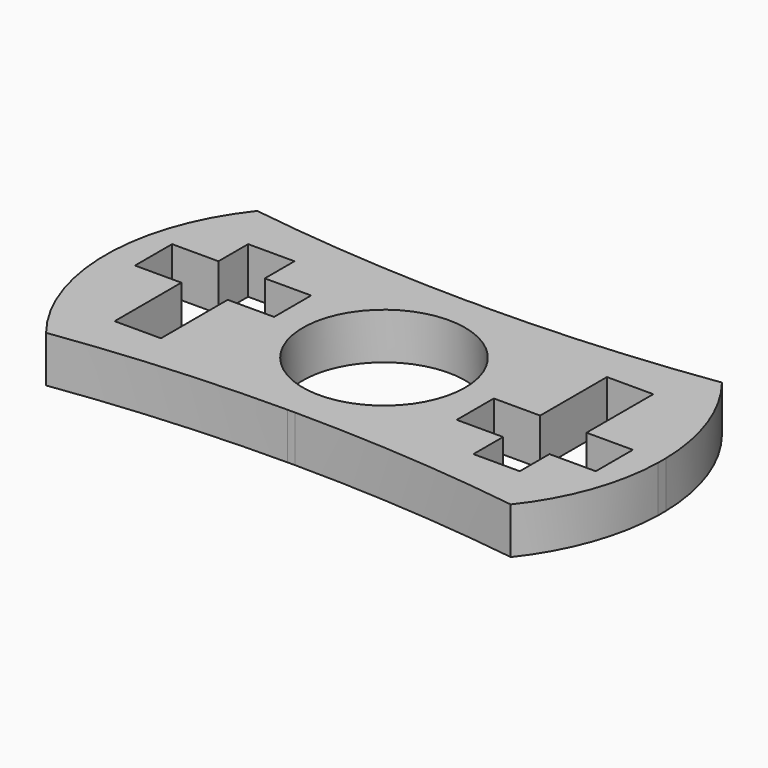
from build123d import *

# Parameters (mm, degrees)
F0_W          = 76.2
F0_H          = 76.2
F1_DEPTH      = 3.175
F1_DEPTH_BACK = 3.175
F2_R          = 11.1125
F3_DEPTH      = 25.4
F5_DEPTH      = 25.4
F7_DEPTH      = 25.4
F9_DEPTH      = 25.4
F10_DEPTH     = 25.4


with BuildPart() as f1:
    # F0 (on Top) → F1 (new body, two sides)
    with BuildSketch(Plane.XY) as f1_sk:
        Rectangle(F0_W, F0_H)
    extrude(amount=F1_DEPTH)
    extrude(f1_sk.sketch, amount=-F1_DEPTH_BACK)

    # F2 (on face) → F3 (cut)
    with BuildSketch(Plane.XY.offset(3.175)):
        Circle(F2_R)
    extrude(amount=-F3_DEPTH, mode=Mode.SUBTRACT)

    # F4 (on face) → F5 (cut)
    with BuildSketch(Plane.XY.offset(3.175)):
        with BuildLine():
            ThreePointArc((-1.1282384551, 15.834857214), (0, 15.875), (1.1282384551, 15.834857214))
            ThreePointArc((1.1282384551, 15.834857214), (19.6798871657, 16.6861460125), (38.1, 19.05))
            Line((38.1, 19.05), (38.1, 38.1))
            Line((38.1, 38.1), (-38.1, 38.1))
            Line((-38.1, 38.1), (-38.1, 19.05))
            ThreePointArc((-38.1, 19.05), (-19.6798871657, 16.6861460125), (-1.1282384551, 15.834857214))
        make_face()
        with BuildLine():
            ThreePointArc((38.1, -19.05), (19.3632933861, -16.6846942182), (0.4955788466, -15.867262732))
            ThreePointArc((0.4955788466, -15.867262732), (0, -15.875), (-0.4955788466, -15.867262732))
            ThreePointArc((-0.4955788466, -15.867262732), (-19.3632933861, -16.6846942182), (-38.1, -19.05))
            Line((-38.1, -19.05), (-38.1, -38.1))
            Line((-38.1, -38.1), (38.1, -38.1))
            Line((38.1, -38.1), (38.1, -19.05))
        make_face()
    extrude(amount=-F5_DEPTH, mode=Mode.SUBTRACT)

    # F6 (on face) → F7 (cut)
    with BuildSketch(Plane.XY.offset(3.175)):
        with BuildLine():
            ThreePointArc((-31.8240671696, -18.0829596142), (-36.2945422432, -10.1630092501), (-38.1, -1.2494755264))
            Line((-38.1, -1.2494755264), (-38.1, -19.05))
            ThreePointArc((-38.1, -19.05), (-34.9653769343, -18.5447820191), (-31.8240671696, -18.0829596142))
        make_face()
        with BuildLine():
            Line((38.1, -19.05), (38.1, -0.7031421254))
            ThreePointArc((38.1, -0.7031421254), (36.375777878, -9.9035605014), (31.8240671696, -18.0829596142))
            ThreePointArc((31.8240671696, -18.0829596142), (34.9653769343, -18.5447820191), (38.1, -19.05))
        make_face()
        with BuildLine():
            Line((38.1, 0.6947725682), (38.1, 19.05))
            ThreePointArc((38.1, 19.05), (34.9662556013, 18.5393499989), (31.8256799416, 18.072550357))
            ThreePointArc((31.8256799416, 18.072550357), (36.3762194276, 9.8939680843), (38.1, 0.6947725682))
        make_face()
        with BuildLine():
            ThreePointArc((-38.1, 1.2410984186), (-36.2949953659, 10.153416681), (-31.8256799416, 18.072550357))
            ThreePointArc((-31.8256799416, 18.072550357), (-34.9662556013, 18.5393499989), (-38.1, 19.05))
            Line((-38.1, 19.05), (-38.1, 1.2410984186))
        make_face()
    extrude(amount=-F7_DEPTH, mode=Mode.SUBTRACT)

    # F8 (on face) → F9 (cut)
    with BuildSketch(Plane.XY.offset(3.175)):
        Polygon((-21.43125, 11.4536878589), (-24.60625, 11.4536878589), (-27.78125, 11.4536878589), (-27.78125, 6.3736878589), (-34.13125, 6.3736878589), (-34.13125, 0.0236878589), (-27.78125, 0.0236878589), (-27.78125, -11.4063121411), (-21.43125, -11.4063121411), (-21.43125, 0.0236878589), (-15.08125, 0.0236878589), (-15.08125, 6.3736878589), (-21.43125, 6.3736878589), align=None)
        Polygon((21.4206709149, -11.47287669), (24.5575709149, -11.47287669), (27.7706709149, -11.47287669), (27.7706709149, -6.39287669), (34.1206709149, -6.39287669), (34.1206709149, -0.04287669), (27.7706709149, -0.04287669), (27.7706709149, 11.38712331), (21.4206709149, 11.38712331), (21.4206709149, -0.04287669), (15.0706709149, -0.04287669), (15.0706709149, -6.39287669), (21.4206709149, -6.39287669), align=None)
    extrude(amount=-F9_DEPTH, mode=Mode.SUBTRACT)

    # F8 (on face) → F10 (cut)
    with BuildSketch(Plane.XY.offset(3.175)):
        Polygon((-21.43125, 11.4536878589), (-24.60625, 11.4536878589), (-27.78125, 11.4536878589), (-27.78125, 6.3736878589), (-34.13125, 6.3736878589), (-34.13125, 0.0236878589), (-27.78125, 0.0236878589), (-27.78125, -11.4063121411), (-21.43125, -11.4063121411), (-21.43125, 0.0236878589), (-15.08125, 0.0236878589), (-15.08125, 6.3736878589), (-21.43125, 6.3736878589), align=None)
        Polygon((21.4206709149, -11.47287669), (24.5575709149, -11.47287669), (27.7706709149, -11.47287669), (27.7706709149, -6.39287669), (34.1206709149, -6.39287669), (34.1206709149, -0.04287669), (27.7706709149, -0.04287669), (27.7706709149, 11.38712331), (21.4206709149, 11.38712331), (21.4206709149, -0.04287669), (15.0706709149, -0.04287669), (15.0706709149, -6.39287669), (21.4206709149, -6.39287669), align=None)
    extrude(amount=-F10_DEPTH, mode=Mode.SUBTRACT)


solid = f1.part
